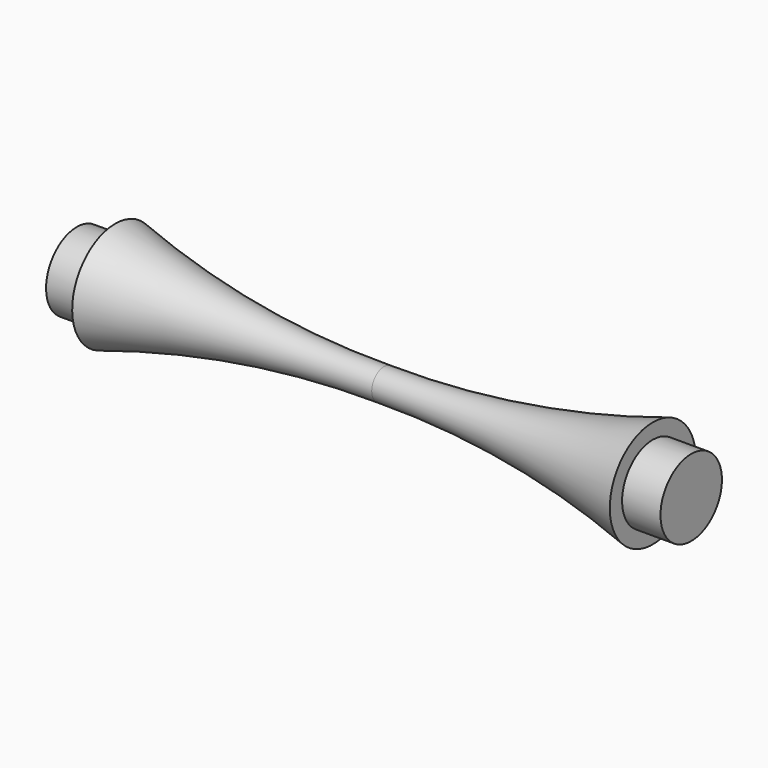
from build123d import *


with BuildPart() as f1:
    # F0 (on Front) → F1 (revolve)
    with BuildSketch(Plane.XZ):
        with BuildLine():
            Line((-40.559708, 15.205224), (-65.559708, 15.205224))
            Line((-65.559708, 15.205224), (-65.559708, -9.794776))
            Line((-65.559708, -9.794776), (134.440292, -9.794776))
            Line((134.440292, -9.794776), (134.440292, 0.205224))
            ThreePointArc((134.440292, 0.205224), (45.995321, 6.090426), (-40.559708, 25.205224))
            Line((-40.559708, 25.205224), (-40.559708, 15.205224))
        make_face()
    revolve(axis=Axis((34.440292, 0, -9.794776), (1, 0, 0)))

    # F2: F1 across face


with BuildPart() as f1_1:
    add(f1.part)
    add(f1.part.mirror(Plane(origin=(134.440292, 0, -9.794776), x_dir=(0, 1, 0), z_dir=(1, 0, 0))))


solid = f1_1.part
